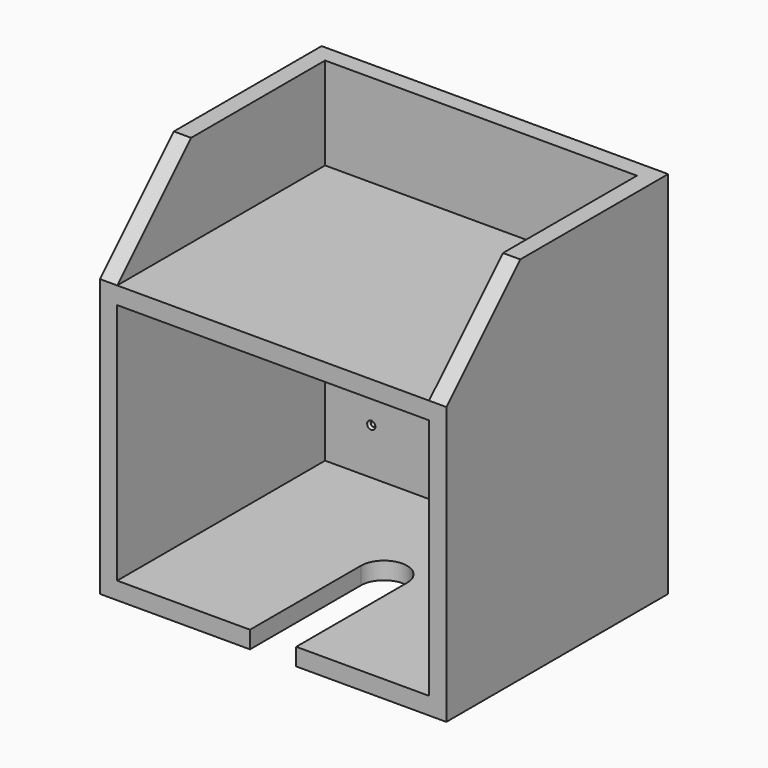
from build123d import *

# Parameters (mm, degrees)
F1_DEPTH       = 190.5
F2_W           = 342.9
F2_H           = 101.6
F3_DEPTH       = 285.75
F4_W           = 342.9
F4_H           = 266.7
F5_DEPTH       = 285.75
F7_DEPTH       = 19.05
F9_D           = 4.9784
F9_CSINK_D     = 9.1186
F9_CSINK_ANGLE = 82


with BuildPart() as f1:
    # F0 (on Right) → F1 (new body, symmetric)
    with BuildSketch(Plane.YZ):
        Polygon((0, 304.8), (0, 0), (304.8, 0), (304.8, 406.4), (101.6, 406.4), align=None)
    extrude(amount=F1_DEPTH, both=True)

    # F2 (on face) → F3 (cut, through all)
    with BuildSketch(Plane.XZ):
        with Locations((0, 355.6)):
            Rectangle(F2_W, F2_H)
    extrude(amount=-F3_DEPTH, mode=Mode.SUBTRACT)

    # F4 (on face) → F5 (cut, through all)
    with BuildSketch(Plane.XZ):
        with Locations((0, 152.4)):
            Rectangle(F4_W, F4_H)
    extrude(amount=-F5_DEPTH, mode=Mode.SUBTRACT)

    # F6 (on face) → F7 (cut, through all)
    with BuildSketch(Plane(origin=(0, 0, 0), x_dir=(1, 0, 0), z_dir=(0, 0, -1))):
        with BuildLine():
            Line((25.4, 0), (-25.4, 0))
            Line((-25.4, 0), (-25.4, -152.4))
            ThreePointArc((-25.4, -152.4), (0, -177.8), (25.4, -152.4))
            Line((25.4, -152.4), (25.4, 0))
        make_face()
    extrude(amount=-F7_DEPTH, mode=Mode.SUBTRACT)

    # F9 (through all)
    with Locations(Plane.XZ.offset(-285.75)):
        with Locations((120.65, 69.85), (120.65, 234.95), (-120.65, 234.95), (-120.65, 69.85)):
            CounterSinkHole(F9_D / 2, F9_CSINK_D / 2, counter_sink_angle=F9_CSINK_ANGLE)


solid = f1.part
